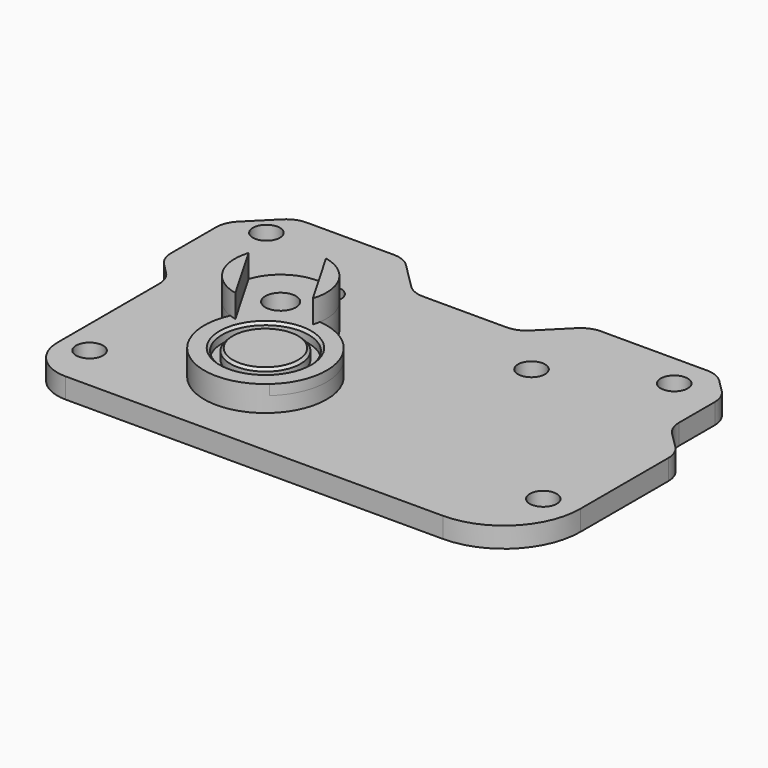
from build123d import *

# Parameters (mm, degrees)
SKETCH_R        = 12
SKETCH_R_2      = 8.5
PAD_DEPTH       = 2
SKETCH001_R     = 8.5
SKETCH001_R_2   = 3
PAD001_DEPTH    = 5
SKETCH002_R     = 8.5
PAD002_DEPTH    = 3
SKETCH003_R     = 6.9
PAD003_DEPTH    = 2
PAD004_DEPTH    = 4.5
SKETCH006_R     = 3
POCKET_DEPTH    = 5
SKETCH005_R     = 2.65
PAD005_DEPTH    = 4
POCKET001_DEPTH = 5
FILLET_R        = 5
FILLET001_R     = 15
FILLET002_R     = 8
CHAMFER_SIZE    = 0.5


with BuildPart() as part:
    # Sketch → Pad (new body)
    with BuildSketch(Plane.XY):
        with Locations((-18, 0)):
            Circle(SKETCH_R)
        with Locations((-18, 0)):
            Circle(SKETCH_R_2, mode=Mode.SUBTRACT)
    extrude(amount=PAD_DEPTH)

    # Sketch001 (on Face4 of Pad) → Pad001 (join)
    with BuildSketch(Plane.XY.offset(2)):
        with BuildLine():
            ThreePointArc((-28.910313, 4.996507), (-12, -10.392305), (-16.871946, 11.946861))
            ThreePointArc((-16.871946, 11.946861), (-30.25, 21.217622), (-28.910313, 4.996507))
        make_face()
        with Locations((-18, 0)):
            Circle(SKETCH001_R, mode=Mode.SUBTRACT)
        with Locations((-25.75, 13.423394)):
            Circle(SKETCH001_R_2, mode=Mode.SUBTRACT)
    extrude(amount=-PAD001_DEPTH)

    # Sketch002 (on Face6 of Pad001) → Pad002 (join)
    with BuildSketch(Plane(origin=(0, 0, -3), x_dir=(1, 0, 0), z_dir=(0, 0, -1))):
        with Locations((-18, 0)):
            Circle(SKETCH002_R)
    extrude(amount=-PAD002_DEPTH)

    # Sketch003 (on Face11 of Pad002) → Pad003 (join)
    with BuildSketch(Plane.XY):
        with Locations((-18, 0)):
            Circle(SKETCH003_R)
    extrude(amount=PAD003_DEPTH)

    # Sketch004 (on Face7 of Pad003) → Pad004 (join)
    with BuildSketch(Plane.XY.offset(2)):
        with BuildLine():
            Line((-34.300254, 16.232869), (-27.59205, 4.613919))
            ThreePointArc((-34.300254, 16.232869), (-33.544229, 8.923394), (-27.59205, 4.613919))
        make_face()
        with BuildLine():
            Line((-17.199746, 10.613919), (-23.90795, 22.232869))
            ThreePointArc((-17.199746, 10.613919), (-17.955771, 17.923394), (-23.90795, 22.232869))
        make_face()
    extrude(amount=PAD004_DEPTH)

    # Sketch006 → Pocket (cut)
    with BuildSketch(Plane.XY.offset(-3)):
        with Locations((-17.75, 13.423394)):
            Circle(SKETCH006_R)
    extrude(amount=-POCKET_DEPTH, mode=Mode.SUBTRACT)

    # Sketch005 (on Face19 of Pad004) → Pad005 (join)
    with BuildSketch(Plane.XY.offset(-3)):
        Polygon((-50, -19), (47, -19), (47, 16), (47, 19.612766), (40.954486, 25.65828), (40.954486, 38.553597), (35.588654, 43.919429), (10.631642, 43.919429), (2.616306, 35.904092), (-17.846332, 35.904092), (-25.861669, 43.919429), (-47.134287, 43.919429), (-54.927801, 36.125915), (-54.927801, 20.927801), (-50, 16), align=None)
        with Locations((40.5, -5)):
            Circle(SKETCH005_R, mode=Mode.SUBTRACT)
        with Locations((-27.75, 27.423394)):
            Circle(SKETCH005_R, mode=Mode.SUBTRACT)
        with Locations((-47.75, 37.423394)):
            Circle(SKETCH005_R, mode=Mode.SUBTRACT)
        with Locations((32.25, 37.423394)):
            Circle(SKETCH005_R, mode=Mode.SUBTRACT)
        with Locations((12.25, 27.423394)):
            Circle(SKETCH005_R, mode=Mode.SUBTRACT)
        with Locations((-44.5, -10)):
            Circle(SKETCH005_R, mode=Mode.SUBTRACT)
    extrude(amount=-PAD005_DEPTH)

    # Sketch008 (on Face5 of Pad005) → Pocket001 (cut)
    with BuildSketch(Plane(origin=(0, 0, -7), x_dir=(1, 0, 0), z_dir=(0, 0, -1))):
        Polygon((-28.75, -8.227241), (-31.75, -13.423394), (-28.75, -18.619546), (-22.75, -18.619546), (-19.75, -13.423394), (-22.75, -8.227241), align=None)
    extrude(amount=-POCKET001_DEPTH, mode=Mode.SUBTRACT)

    # Fillet
    fillet_edges = [part.edges().sort_by_distance(p)[0] for p in [
        (47, 19.612766, -5),
        (40.954486, 25.65828, -5),
        (40.954486, 38.553597, -5),
        (35.588654, 43.919429, -5),
        (10.631642, 43.919429, -5),
        (2.616306, 35.904092, -5),
        (-17.846332, 35.904092, -5),
        (-25.861669, 43.919429, -5),
        (-47.134287, 43.919429, -5),
        (-54.927801, 36.125915, -5),
        (-54.927801, 20.927801, -5),
        (-50, 16, -5),
    ]]
    fillet(fillet_edges, radius=FILLET_R)

    # Fillet001
    fillet001_edges = [part.edges().sort_by_distance(p)[0] for p in [
        (47, -19, -5),
    ]]
    fillet(fillet001_edges, radius=FILLET001_R)

    # Fillet002
    fillet002_edges = [part.edges().sort_by_distance(p)[0] for p in [
        (-50, -19, -5),
    ]]
    fillet(fillet002_edges, radius=FILLET002_R)

    # Chamfer
    chamfer_edges = [part.edges().sort_by_distance(p)[0] for p in [
        (-24.9, 0, 2),
        (-26.5, 0, 2),
    ]]
    chamfer(chamfer_edges, length=CHAMFER_SIZE)


solid = part.part
